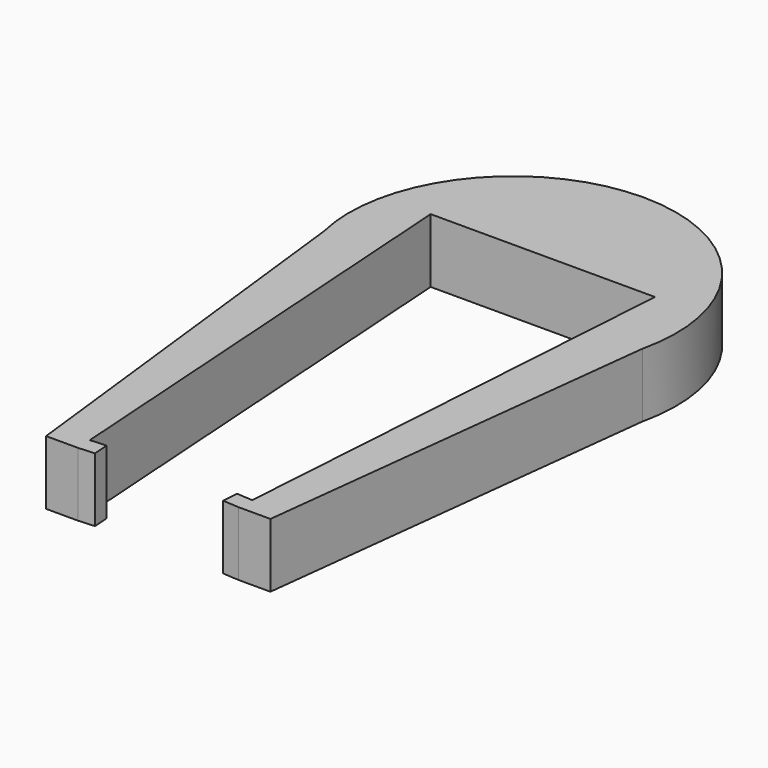
from build123d import *

# Parameters (mm, degrees)
F1_DEPTH = 4


with BuildPart() as f1:
    # F0 (on Top) → F1 (new body)
    with BuildSketch(Plane.XY):
        with BuildLine():
            Line((-5.066519, -14.002215), (-7, 15))
            Line((-7, 15), (7, 15))
            Line((7, 15), (5.066519, -14.002215))
            Line((5.066519, -14.002215), (4.068734, -13.935696))
            Line((4.068734, -13.935696), (4.002215, -14.933481))
            Line((4.002215, -14.933481), (5, -15))
            Line((5, -15), (7, -15))
            Line((7, -15), (9.933703, 10.350412))
            ThreePointArc((9.933703, 10.350412), (0, 22.865915), (-9.933703, 10.350412))
            Line((-9.933703, 10.350412), (-7, -15))
            Line((-7, -15), (-5, -15))
            Line((-5, -15), (-4.002215, -14.933481))
            Line((-4.002215, -14.933481), (-4.068734, -13.935696))
            Line((-4.068734, -13.935696), (-5.066519, -14.002215))
        make_face()
    extrude(amount=F1_DEPTH)


solid = f1.part
